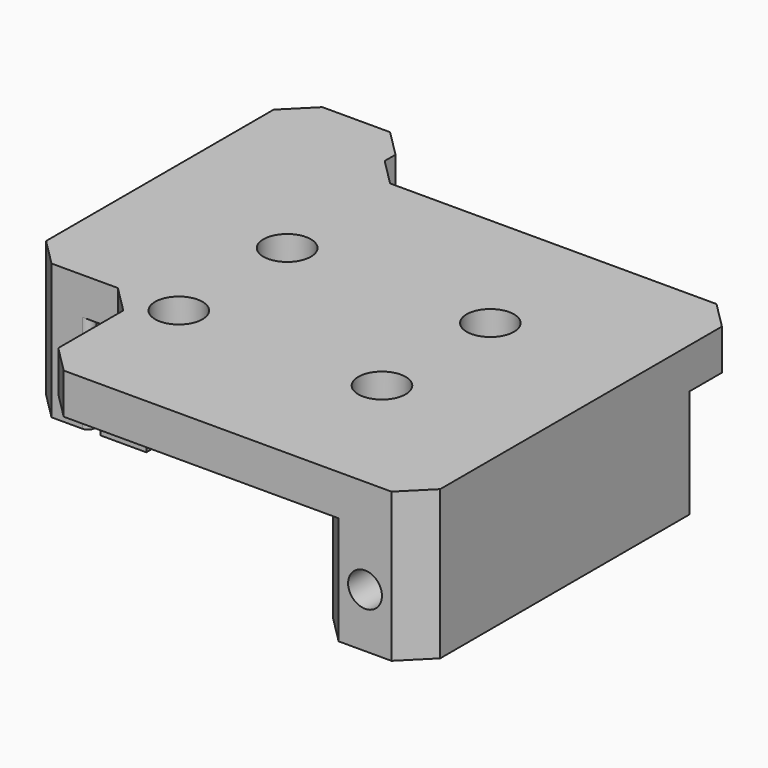
from build123d import *

# Parameters (mm, degrees)
SKETCH_W         = 28.2
SKETCH_H         = 30
SKETCH_R         = 1.75
PAD_DEPTH        = 3
SKETCH002_W      = 9
SKETCH002_H      = 25
SKETCH002_W_2    = 7.9
PAD002_DEPTH     = 10
POCKET_DEPTH     = 7.25
POCKET_FACE46_W  = 25
POCKET_FACE46_H  = 7.9
PAD003_DEPTH     = 1
HOLE_D           = 2.5
HOLE_DEPTH       = 30
HOLE_CSINK_D     = 6.3
HOLE_CSINK_ANGLE = 90
CHAMFER_SIZE     = 2


with BuildPart() as inverted_body:
    # Sketch → Pad (new body)
    with BuildSketch(Plane.XY):
        with Locations((14.1, 33)):
            Rectangle(SKETCH_W, SKETCH_H)
        with Locations((10.7, 38)):
            Circle(SKETCH_R, mode=Mode.SUBTRACT)
        with Locations((25.7, 38)):
            Circle(SKETCH_R, mode=Mode.SUBTRACT)
        with Locations((25.7, 28)):
            Circle(SKETCH_R, mode=Mode.SUBTRACT)
        with Locations((10.7, 28)):
            Circle(SKETCH_R, mode=Mode.SUBTRACT)
    extrude(amount=PAD_DEPTH)

    # Sketch002 (on DatumPlane) → Pad002 (join)
    with BuildSketch(Plane.XY.offset(3)):
        with Locations((32.6, 40.5)):
            Rectangle(SKETCH002_W, SKETCH002_H)
        with Locations((3.95, 30.5)):
            Rectangle(SKETCH002_W_2, SKETCH002_H)
    extrude(amount=-PAD002_DEPTH)

    # Sketch003 → Pocket (cut)
    with BuildSketch(Plane(origin=(-0.5, 10, -7), x_dir=(1, 0, 0), z_dir=(0, 0, 1))):
        with BuildLine():
            Line((33.3, 48), (32, 48))
            Line((32, 48), (32, 18))
            Line((32, 18), (33.3, 18))
            ThreePointArc((33.3, 19), (32.8, 18.5), (33.3, 18))
            ThreePointArc((33.3, 19), (33.8, 19.5), (33.3, 20))
            ThreePointArc((33.3, 21), (32.8, 20.5), (33.3, 20))
            ThreePointArc((33.3, 21), (33.8, 21.5), (33.3, 22))
            ThreePointArc((33.3, 23), (32.8, 22.5), (33.3, 22))
            ThreePointArc((33.3, 23), (33.8, 23.5), (33.3, 24))
            ThreePointArc((33.3, 25), (32.8, 24.5), (33.3, 24))
            ThreePointArc((33.3, 25), (33.8, 25.5), (33.3, 26))
            ThreePointArc((33.3, 27), (32.8, 26.5), (33.3, 26))
            ThreePointArc((33.3, 27), (33.8, 27.5), (33.3, 28))
            ThreePointArc((33.3, 29), (32.8, 28.5), (33.3, 28))
            ThreePointArc((33.3, 29), (33.8, 29.5), (33.3, 30))
            ThreePointArc((33.3, 31), (32.8, 30.5), (33.3, 30))
            ThreePointArc((33.3, 31), (33.8, 31.5), (33.3, 32))
            ThreePointArc((33.3, 33), (32.8, 32.5), (33.3, 32))
            ThreePointArc((33.3, 33), (33.8, 33.5), (33.3, 34))
            ThreePointArc((33.3, 35), (32.8, 34.5), (33.3, 34))
            ThreePointArc((33.3, 35), (33.8, 35.5), (33.3, 36))
            ThreePointArc((33.3, 37), (32.8, 36.5), (33.3, 36))
            ThreePointArc((33.3, 37), (33.8, 37.5), (33.3, 38))
            ThreePointArc((33.3, 39), (32.8, 38.5), (33.3, 38))
            ThreePointArc((33.3, 39), (33.8, 39.5), (33.3, 40))
            ThreePointArc((33.3, 41), (32.8, 40.5), (33.3, 40))
            ThreePointArc((33.3, 41), (33.8, 41.5), (33.3, 42))
            ThreePointArc((33.3, 43), (32.8, 42.5), (33.3, 42))
            ThreePointArc((33.3, 43), (33.8, 43.5), (33.3, 44))
            ThreePointArc((33.3, 45), (32.8, 44.5), (33.3, 44))
            ThreePointArc((33.3, 45), (33.8, 45.5), (33.3, 46))
            ThreePointArc((33.3, 47), (32.8, 46.5), (33.3, 46))
            ThreePointArc((33.3, 47), (33.8, 47.5), (33.3, 48))
        make_face()
    extrude(amount=POCKET_DEPTH, mode=Mode.SUBTRACT)

    # Pocket Face46 → Pad003 (add)
    with BuildSketch(Plane(origin=(3.95, 30.5, -7), x_dir=(0, -1, 0), z_dir=(0, 0, -1))):
        Rectangle(POCKET_FACE46_W, POCKET_FACE46_H)
    extrude(amount=PAD003_DEPTH)

    # Hole
    with Locations(Plane(origin=(0, 43, 0), x_dir=(-1, 0, 0), z_dir=(0, 1, 0))):
        with Locations((-3.95, -4)):
            CounterSinkHole(HOLE_D / 2, HOLE_CSINK_D / 2, depth=HOLE_DEPTH, counter_sink_angle=HOLE_CSINK_ANGLE)

    # Chamfer
    chamfer_edges = [inverted_body.edges().sort_by_distance(p)[0] for p in [
        (28.1, 53, -2),
        (37.1, 53, -2),
        (0, 48, 1.5),
        (0, 18, -2),
        (7.9, 18, -3.5),
        (28.2, 18, 1.5),
        (37.1, 28, -2),
        (7.9, 18, -7.5),
        (0, 18, -7.5),
        (28.2, 28, 1.5),
        (28.1, 48, 1.5),
    ]]
    chamfer(chamfer_edges, length=CHAMFER_SIZE)


with BuildPart() as body:
    # Part__Mirroring: instance of inverted-body
    add(inverted_body.part.mirror(Plane(origin=(0, 0, 0), x_dir=(0, -1, 0), z_dir=(1, 0, 0))))


solid = body.part
